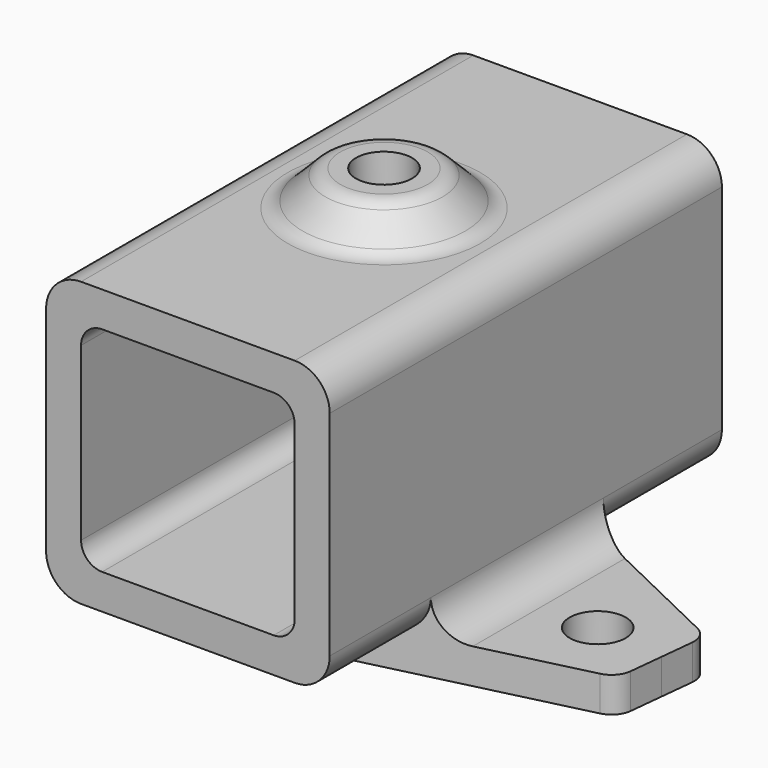
from build123d import *

# Parameters (mm, degrees)
F1_DEPTH  = 35
F3_DEPTH  = 5
F8_R      = 12.5
F6_R      = 7.5
F10_R     = 3
F11_R     = 4
F12_DEPTH = 5
F13_R     = 4
F14_DEPTH = 5
F15_R     = 3
F16_R     = 5
F17_R     = 5


with BuildPart() as f1:
    # F0 (on Front) → F1 (new body, symmetric)
    with BuildSketch(Plane.XZ):
        with BuildLine():
            Line((-20.25, 15.25), (-20.25, -20.25))
            Line((-20.25, -20.25), (20.25, -20.25))
            Line((20.25, -20.25), (20.25, 15.25))
            ThreePointArc((20.25, 15.25), (18.7855339059, 18.7855339059), (15.25, 20.25))
            Line((15.25, 20.25), (-15.25, 20.25))
            ThreePointArc((-15.25, 20.25), (-18.7855339059, 18.7855339059), (-20.25, 15.25))
        make_face()
        with BuildLine():
            Line((12.25, -15.25), (-12.25, -15.25))
            ThreePointArc((-12.25, -15.25), (-14.3713203436, -14.3713203436), (-15.25, -12.25))
            Line((-15.25, -12.25), (-15.25, 12.25))
            ThreePointArc((-15.25, 12.25), (-14.3713203436, 14.3713203436), (-12.25, 15.25))
            Line((-12.25, 15.25), (12.25, 15.25))
            ThreePointArc((12.25, 15.25), (14.3713203436, 14.3713203436), (15.25, 12.25))
            Line((15.25, 12.25), (15.25, -12.25))
            ThreePointArc((15.25, -12.25), (14.3713203436, -14.3713203436), (12.25, -15.25))
        make_face(mode=Mode.SUBTRACT)
    extrude(amount=F1_DEPTH, both=True)

    # F2 (on face) → F3 (cut, through all)
    with BuildSketch(Plane.XY.offset(20.25)):
        Polygon((6.6, -3.8105117767), (6.6, 3.8105117767), (0, 7.6210235533), (-6.6, 3.8105117767), (-6.6, -3.8105117767), (0, -7.6210235533), align=None)
    extrude(amount=-F3_DEPTH, mode=Mode.SUBTRACT)

    # F8 (on offset) → F9 section 0
    with BuildSketch(Plane.XY.offset(20.25)):
        Circle(F8_R)
    # F6 (on offset) → F9 section 1
    with BuildSketch(Plane.XY.offset(25.25)):
        Circle(F6_R)
    loft()

    # F10
    f10_edges = [f1.edges().sort_by_distance(p)[0] for p in [
        (-12.5, 0, 20.25),
        (-7.5, 0, 25.25),
    ]]
    fillet(f10_edges, radius=F10_R)

    # F11 (on face) → F12 (cut, through all)
    with BuildSketch(Plane.XY.offset(25.25)):
        Circle(F11_R)
    extrude(amount=-F12_DEPTH, mode=Mode.SUBTRACT)

    # F13 (on face) → F14 (join)
    with BuildSketch(Plane(origin=(0, 0, -20.25), x_dir=(1, 0, 0), z_dir=(0, 0, -1))):
        Polygon((-44.4906626391, 2.3624008838), (-43.7589633962, -4.5992523838), (-43.0272641533, -11.5609056514), (-7.9591781516, -19.9412006447), (11.9312597558, -17.8506313793), (43.9934016914, -2.4146651154), (43.2617024485, 4.5469881521), (42.5300032056, 11.5086414197), (7.9591781516, 19.9412006447), (-11.9312597558, 17.8506313793), align=None)
        with Locations((-33.3164834948, -3.5017035195)):
            Circle(F13_R, mode=Mode.SUBTRACT)
        with Locations((33.3164834948, 3.5017035195)):
            Circle(F13_R, mode=Mode.SUBTRACT)
    extrude(amount=F14_DEPTH)

    # F15
    f15_edges = [f1.edges().sort_by_distance(p)[0] for p in [
        (42.530003, -11.508641, -22.75),
        (7.959178, -19.941201, -22.75),
        (-11.93126, -17.850631, -22.75),
        (-44.490663, -2.362401, -22.75),
        (-43.027264, 11.560906, -22.75),
        (-7.959178, 19.941201, -22.75),
        (11.93126, 17.850631, -22.75),
        (43.993402, 2.414665, -22.75),
    ]]
    fillet(f15_edges, radius=F15_R)

    # F16
    f16_edges = [f1.edges().sort_by_distance(p)[0] for p in [
        (-20.25, 1.55528, -20.25),
        (20.25, -1.548771, -20.25),
    ]]
    fillet(f16_edges, radius=F16_R)

    # F17
    f17_edges = [f1.edges().sort_by_distance(p)[0] for p in [
        (-20.25, 26.002018, -20.25),
        (-20.25, -24.446739, -20.25),
        (20.25, 24.422833, -20.25),
        (20.25, -25.971604, -20.25),
    ]]
    fillet(f17_edges, radius=F17_R)


solid = f1.part
